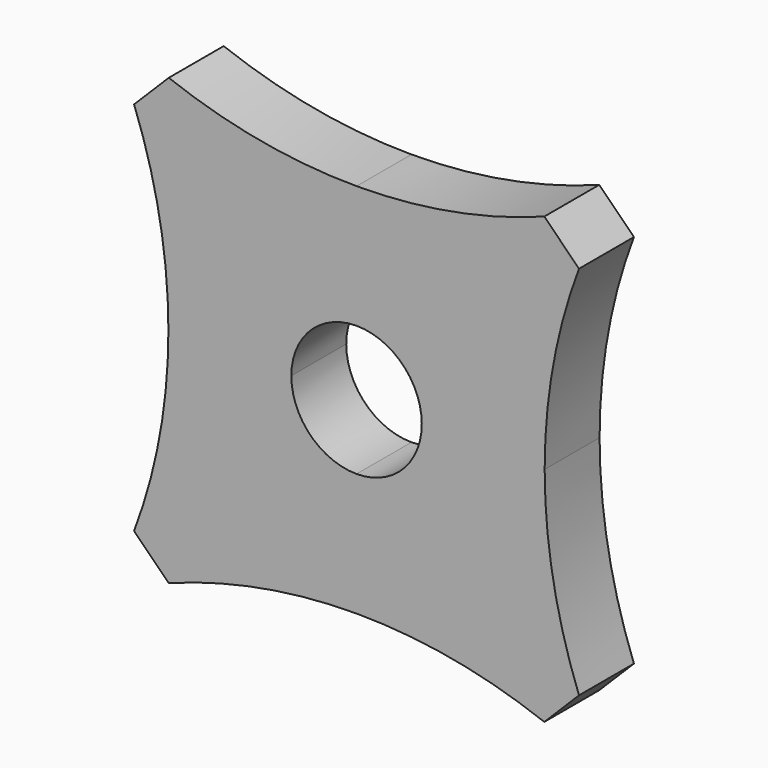
from build123d import *

# Parameters (mm, degrees)
F1_DEPTH = 2.54


with BuildPart() as f1:
    # F0 (on Front) → F1 (new body)
    with BuildSketch(Plane.XZ):
        with BuildLine():
            ThreePointArc((0, 2.413), (1.706249, 1.706249), (2.413, 0))
            ThreePointArc((2.413, 0), (1.706249, -1.706249), (0, -2.413))
            Line((0, -2.413), (0, -6.9596))
            ThreePointArc((0, -6.9596), (3.530965, -7.279709), (6.946796, -8.2296))
            Line((6.946796, -8.2296), (8.2296, -6.946796))
            ThreePointArc((8.2296, -6.946796), (7.279709, -3.530965), (6.9596, 0))
            ThreePointArc((6.9596, 0), (7.279709, 3.530965), (8.2296, 6.946796))
            Line((8.2296, 6.946796), (6.946796, 8.2296))
            ThreePointArc((6.946796, 8.2296), (3.530965, 7.279709), (0, 6.9596))
            Line((0, 6.9596), (0, 2.413))
        make_face()
        with BuildLine():
            ThreePointArc((0, -2.413), (-1.706249, -1.706249), (-2.413, 0))
            ThreePointArc((-2.413, 0), (-1.706249, 1.706249), (0, 2.413))
            Line((0, 2.413), (0, 6.9596))
            ThreePointArc((0, 6.9596), (-3.530965, 7.279709), (-6.946796, 8.2296))
            Line((-6.946796, 8.2296), (-7.588198, 7.588198))
            Line((-7.588198, 7.588198), (-8.2296, 6.946796))
            ThreePointArc((-8.2296, 6.946796), (-7.279709, 3.530965), (-6.9596, 0))
            ThreePointArc((-6.9596, 0), (-7.279709, -3.530965), (-8.2296, -6.946796))
            Line((-8.2296, -6.946796), (-6.946796, -8.2296))
            ThreePointArc((-6.946796, -8.2296), (-3.530965, -7.279709), (0, -6.9596))
            Line((0, -6.9596), (0, -2.413))
        make_face()
    extrude(amount=F1_DEPTH)


solid = f1.part
